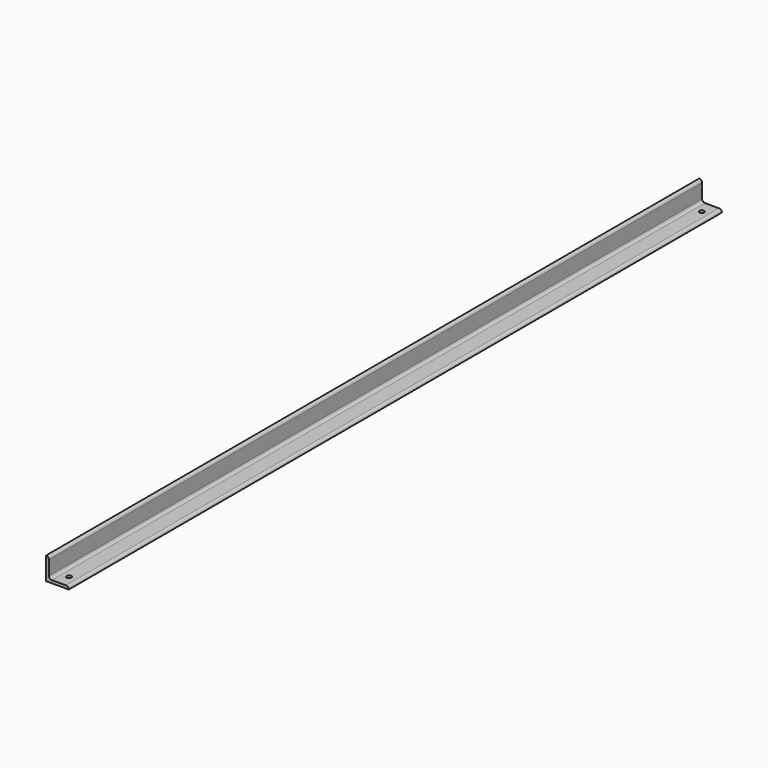
from build123d import *

# Parameters (mm, degrees)
F1_DEPTH = 914.4
F2_R     = 2.6162
F3_DEPTH = 3.176


with BuildPart() as f1:
    # F0 (on Front) → F1 (new body)
    with BuildSketch(Plane.XZ):
        with BuildLine():
            Line((-25.4, 0), (0, 0))
            ThreePointArc((0, 0), (-0.929936, 2.245064), (-3.175, 3.175))
            Line((-3.175, 3.175), (-19.05, 3.175))
            ThreePointArc((-19.05, 3.175), (-21.295064, 4.104936), (-22.225, 6.35))
            Line((-22.225, 6.35), (-22.225, 22.225))
            ThreePointArc((-22.225, 22.225), (-23.154936, 24.470064), (-25.4, 25.4))
            Line((-25.4, 25.4), (-25.4, 0))
        make_face()
    extrude(amount=F1_DEPTH)

    # F2 (on face) → F3 (cut, through all)
    with BuildSketch(Plane.XY.offset(3.175)):
        with Locations((-11.1125, -900.1125)):
            Circle(F2_R)
        with Locations((-11.1125, -14.2875)):
            Circle(F2_R)
    extrude(amount=-F3_DEPTH, mode=Mode.SUBTRACT)


solid = f1.part
